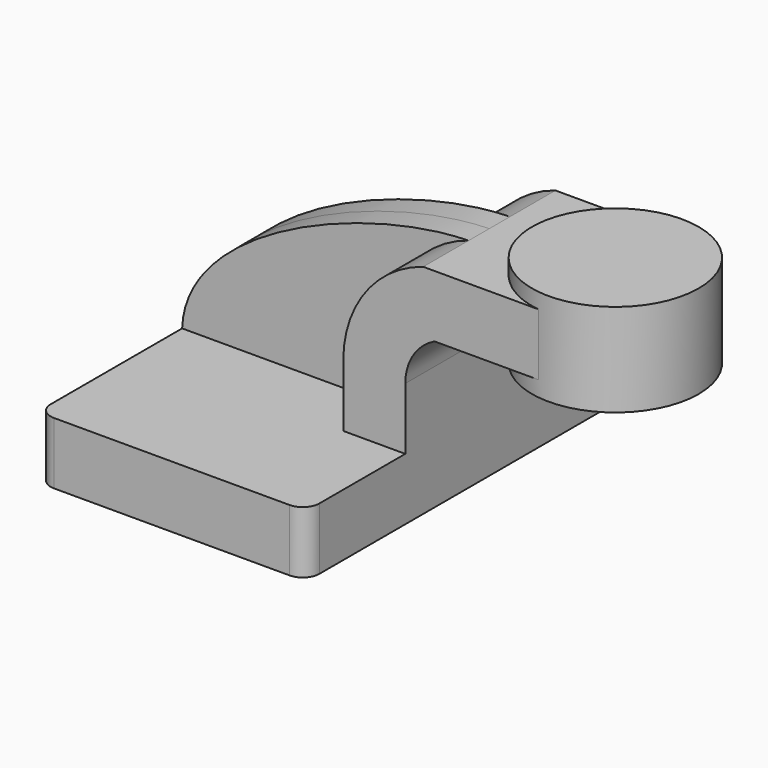
from build123d import *

# Parameters (mm, degrees)
F1_DEPTH = 63.5
F0_W     = 25.1798671365
F0_H     = 19.05
F2_DEPTH = 25.4
F3_DEPTH = 7.9375
F5_R     = 5.08


with BuildPart() as f1:
    # F0 (on Front) → F1 (new body, symmetric)
    with BuildSketch(Plane.XZ):
        Polygon((41.275, -9.525), (41.275, 9.525), (22.225, 9.525), (-41.275, 9.525), (-41.275, -9.525), align=None)
    extrude(amount=F1_DEPTH, both=True)

    # F0 (on Front) → F2 (join, symmetric)
    with BuildSketch(Plane.XZ):
        with BuildLine():
            Line((22.225, 9.525), (41.275, 9.525))
            Line((41.275, 9.525), (41.275, 28.575))
            ThreePointArc((41.275, 28.575), (43.7066106583, 37.0183943417), (50.2565317176, 42.8752))
            Line((50.2565317176, 42.8752), (60.325, 42.8752))
            Line((60.325, 42.8752), (60.325, 61.9252))
            Line((60.325, 61.9252), (46.7808252517, 61.9252))
            ThreePointArc((46.7808252517, 61.9252), (29.0261751083, 49.2826338209), (22.225, 28.575))
            Line((22.225, 28.575), (22.225, 9.525))
        make_face()
        with Locations((72.9149335682, 52.4002)):
            Rectangle(F0_W, F0_H)
    extrude(amount=F2_DEPTH, both=True)

    # F0 (on Front) → F3 (join, symmetric)
    with BuildSketch(Plane.XZ):
        with BuildLine():
            Line((-41.275, 9.525), (22.225, 9.525))
            Line((22.225, 9.525), (22.225, 28.575))
            ThreePointArc((22.225, 28.575), (29.0261751083, 49.2826338209), (46.7808252517, 61.9252))
            add(Edge.make_bspline(
                [(-41.275, 9.525), (-40.1955842972, 39.3650457263), (14.7107355297, 61.2183064222), (46.7808252517, 61.9252)],
                knots=[0, 0, 0, 0, 102.4676013226, 102.4676013226, 102.4676013226, 102.4676013226], degree=3))
        make_face()
    extrude(amount=F3_DEPTH, both=True)

    # F0 (on Front) → F4 (revolve)
    with BuildSketch(Plane.XZ):
        Polygon((85.5048671365, 61.9252), (85.5048671365, 42.8752), (85.725, 42.8752), (85.725, 38.1), (111.125, 38.1), (111.125, 66.675), (85.5048671365, 66.675), align=None)
    revolve(axis=Axis((85.5048671365, 0, 52.5966957748), (0, 0, 1)))

    # F5
    f5_edges = [f1.edges().sort_by_distance(p)[0] for p in [
        (-41.275, -63.5, 0),
        (41.275, -63.5, 0),
        (41.275, 63.5, 0),
        (-41.275, 63.5, 0),
    ]]
    fillet(f5_edges, radius=F5_R)


solid = f1.part
